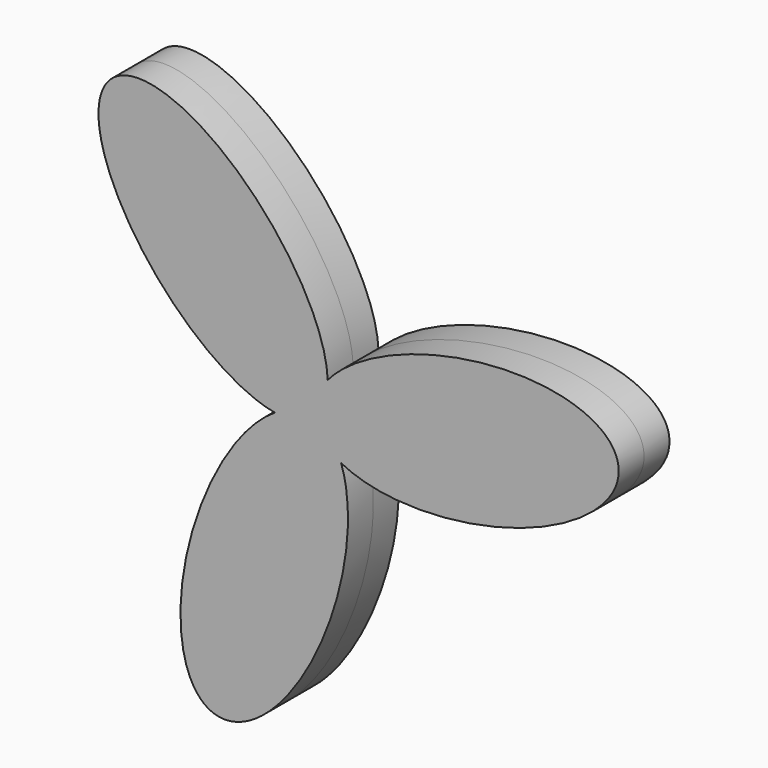
from build123d import *

# Parameters (mm, degrees)
F1_DEPTH      = 5
F1_DEPTH_BACK = 5


with BuildPart() as f1:
    # F0 (on Front) → F1 (new body, two sides)
    with BuildSketch(Plane.XZ) as f1_sk:
        with BuildLine():
            add(Edge.make_bspline(
                [(2.0728880566, 6.0186772974), (-0.5625396232, 2.8951433626), (0, 0)],
                knots=[5.7659660793, 5.7659660793, 5.7659660793, 6.2831853072, 6.2831853072, 6.2831853072], degree=2, weights=[1, 0.9667464851, 1]))
            add(Edge.make_bspline(
                [(0, 0), (2.225997888, 1.9347452856), (2.0728880566, 6.0186772974)],
                knots=[0, 0, 0, 0.5172192279, 0.5172192279, 0.5172192279], degree=2, weights=[1, 0.9667464851, 1]))
        make_face()
        with BuildLine():
            add(Edge.make_bspline(
                [(0, 0), (0.5625396232, -2.8951433626), (4.1758834084, -4.8045123649)],
                knots=[0, 0, 0, 0.5172192279, 0.5172192279, 0.5172192279], degree=2, weights=[1, 0.9667464851, 1]))
            add(Edge.make_bspline(
                [(-6.248771465, -1.2141649325), (-2.225997888, -1.9347452856), (0, 0)],
                knots=[5.7659660793, 5.7659660793, 5.7659660793, 6.2831853072, 6.2831853072, 6.2831853072], degree=2, weights=[1, 0.9667464851, 1]))
            add(Edge.make_bspline(
                [(-6.248771465, -1.2141649325), (-21.9050246836, -11.0532421656), (-21.0936248675, -34.9715703822), (-20.2822250514, -58.8898985989), (-4.9145624269, -40.543788935), (10.4531001976, -22.197679271), (4.1758834084, -4.8045123649)],
                knots=[0.5172192279, 0.5172192279, 0.5172192279, 2.2668015117, 2.2668015117, 4.0163837955, 4.0163837955, 5.7659660793, 5.7659660793, 5.7659660793], degree=2, weights=[1, 0.6411571519, 1, 0.6411571519, 1, 0.6411571519, 1]))
        make_face()
        with BuildLine():
            add(Edge.make_bspline(
                [(-6.248771465, -1.2141649325), (-2.225997888, -1.9347452856), (0, 0)],
                knots=[5.7659660793, 5.7659660793, 5.7659660793, 6.2831853072, 6.2831853072, 6.2831853072], degree=2, weights=[1, 0.9667464851, 1]))
            add(Edge.make_bspline(
                [(0, 0), (-2.7885375112, 0.9603980769), (-6.248771465, -1.2141649325)],
                knots=[0, 0, 0, 0.5172192279, 0.5172192279, 0.5172192279], degree=2, weights=[1, 0.9667464851, 1]))
        make_face()
        with BuildLine():
            add(Edge.make_bspline(
                [(0, 0), (2.225997888, 1.9347452856), (2.0728880566, 6.0186772974)],
                knots=[0, 0, 0, 0.5172192279, 0.5172192279, 0.5172192279], degree=2, weights=[1, 0.9667464851, 1]))
            add(Edge.make_bspline(
                [(4.1758834084, -4.8045123649), (2.7885375112, -0.9603980769), (0, 0)],
                knots=[5.7659660793, 5.7659660793, 5.7659660793, 6.2831853072, 6.2831853072, 6.2831853072], degree=2, weights=[1, 0.9667464851, 1]))
            add(Edge.make_bspline(
                [(4.1758834084, -4.8045123649), (20.5249008514, -13.4436867637), (40.833080795, -0.7818298021), (61.1412607386, 11.8800271596), (37.5692323968, 16.0157585573), (13.997204055, 20.1514899549), (2.0728880566, 6.0186772974)],
                knots=[0.5172192279, 0.5172192279, 0.5172192279, 2.2668015117, 2.2668015117, 4.0163837955, 4.0163837955, 5.7659660793, 5.7659660793, 5.7659660793], degree=2, weights=[1, 0.6411571519, 1, 0.6411571519, 1, 0.6411571519, 1]))
        make_face()
        with BuildLine():
            add(Edge.make_bspline(
                [(4.1758834084, -4.8045123649), (2.7885375112, -0.9603980769), (0, 0)],
                knots=[5.7659660793, 5.7659660793, 5.7659660793, 6.2831853072, 6.2831853072, 6.2831853072], degree=2, weights=[1, 0.9667464851, 1]))
            add(Edge.make_bspline(
                [(0, 0), (0.5625396232, -2.8951433626), (4.1758834084, -4.8045123649)],
                knots=[0, 0, 0, 0.5172192279, 0.5172192279, 0.5172192279], degree=2, weights=[1, 0.9667464851, 1]))
        make_face()
        with BuildLine():
            add(Edge.make_bspline(
                [(0, 0), (-2.7885375112, 0.9603980769), (-6.248771465, -1.2141649325)],
                knots=[0, 0, 0, 0.5172192279, 0.5172192279, 0.5172192279], degree=2, weights=[1, 0.9667464851, 1]))
            add(Edge.make_bspline(
                [(2.0728880566, 6.0186772974), (-0.5625396232, 2.8951433626), (0, 0)],
                knots=[5.7659660793, 5.7659660793, 5.7659660793, 6.2831853072, 6.2831853072, 6.2831853072], degree=2, weights=[1, 0.9667464851, 1]))
            add(Edge.make_bspline(
                [(2.0728880566, 6.0186772974), (1.3801238323, 24.4969289293), (-19.7394559275, 35.7534001843), (-40.8590356872, 47.0098714392), (-32.6546699699, 24.5280303777), (-24.4503042526, 2.0461893161), (-6.248771465, -1.2141649325)],
                knots=[0.5172192279, 0.5172192279, 0.5172192279, 2.2668015117, 2.2668015117, 4.0163837955, 4.0163837955, 5.7659660793, 5.7659660793, 5.7659660793], degree=2, weights=[1, 0.6411571519, 1, 0.6411571519, 1, 0.6411571519, 1]))
        make_face()
    extrude(amount=F1_DEPTH)
    extrude(f1_sk.sketch, amount=-F1_DEPTH_BACK)


solid = f1.part
